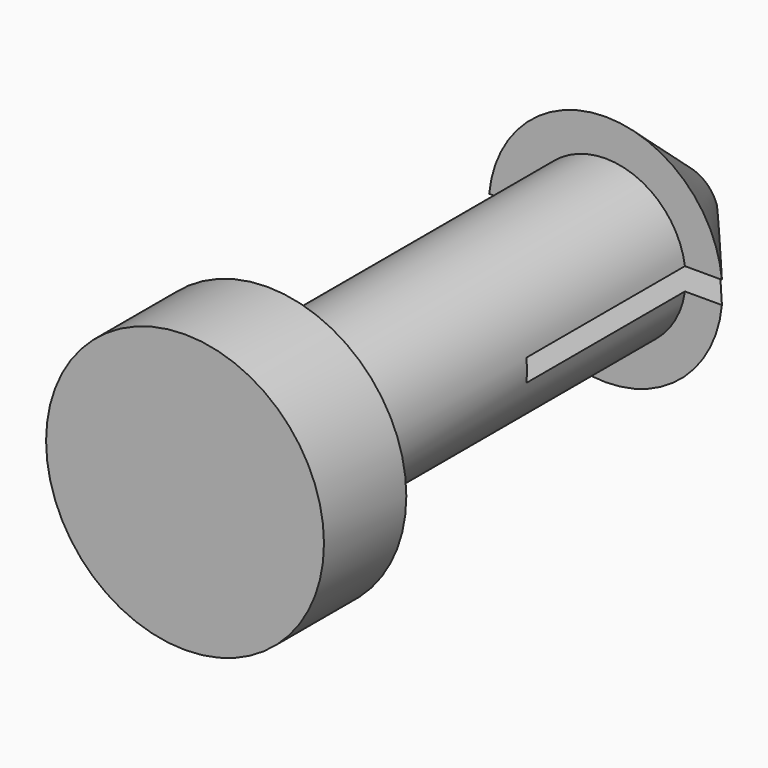
from build123d import *

# Parameters (mm, degrees)
F2_W     = 3.511424
F2_H     = 0.302708
F3_DEPTH = 4


with BuildPart() as f1:
    # F0 (on Right) → F1 (revolve)
    with BuildSketch(Plane.YZ):
        Polygon((0, 1.89), (0, 0), (4.690137, 0), (8.452276, 0), (8.452276, 0.497261), (7.15, 1.59), (7.15, 1.09), (1.4, 1.09), (1.4, 1.89), align=None)
    revolve(axis=Axis((0, 6.571206, 0), (0, -1, 0)))

    # F2 (on face) → F3 (cut)
    with BuildSketch(Plane(origin=(0, 8.452276, 0), x_dir=(-1, 0, 0), z_dir=(0, 1, 0))):
        Rectangle(F2_W, F2_H)
    extrude(amount=-F3_DEPTH, mode=Mode.SUBTRACT)


solid = f1.part
